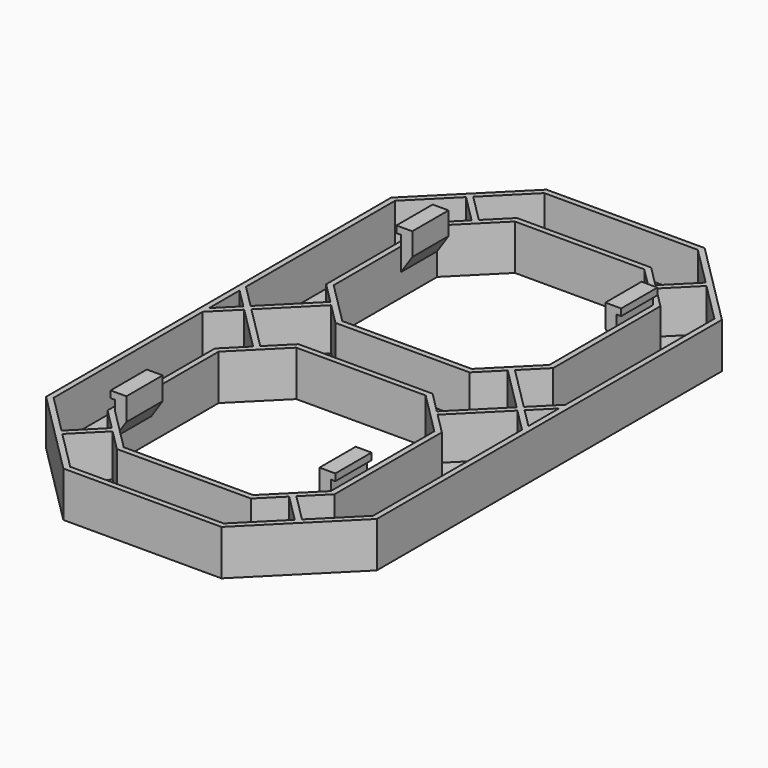
from build123d import *

# Parameters (mm, degrees)
PAD_DEPTH    = 8
THICKNESS_T  = -1
POCKET_DEPTH = 0.5
PAD001_DEPTH = 8
PAD002_DEPTH = 8
SKETCH003_W  = 1
SKETCH003_H  = 7.5
PAD003_DEPTH = 18
SKETCH004_W  = 1
SKETCH004_H  = 7.5
PAD004_DEPTH = 18
SKETCH005_W  = 1
SKETCH005_H  = 7.5
PAD005_DEPTH = 18
SKETCH006_W  = 1
SKETCH006_H  = 7.5
PAD006_DEPTH = 18
SKETCH007_W  = 1
SKETCH007_H  = 7.5
PAD007_DEPTH = 7
SKETCH008_W  = 1
SKETCH008_H  = 7.5
PAD008_DEPTH = 7
SKETCH009_W  = 1
SKETCH009_H  = 7.5
PAD009_DEPTH = 7
SKETCH010_W  = 1
SKETCH010_H  = 7.5
PAD010_DEPTH = 7


with BuildPart() as part:
    # Sketch → Pad (new body)
    with BuildSketch(Plane.XY):
        Polygon((-29.21, 38.1002724549), (-29.21, -38.0997275451), (-13.9697275451, -53.34), (13.9702724549, -53.34), (29.2105449098, -38.0997275451), (29.2105449098, 38.1002724549), (13.9702724549, 53.3405449098), (-13.9697275451, 53.3405449098), align=None)
        Polygon((-19.05, 35.5607622358), (-19.05, 12.7007622358), (-11.4302173259, 5.0809795617), (11.4297826741, 5.0809795617), (19.0495653481, 12.7007622358), (19.0495653481, 35.5607622358), (11.4297826741, 43.1805449098), (-11.4302173259, 43.1805449098), align=None, mode=Mode.SUBTRACT)
        Polygon((-19.05, -35.5602173259), (-19.05, -12.7002173259), (-11.4302173259, -5.0804346519), (11.4297826741, -5.0804346519), (19.0495653481, -12.7002173259), (19.0495653481, -35.5602173259), (11.4297826741, -43.18), (-11.4302173259, -43.18), align=None, mode=Mode.SUBTRACT)
    extrude(amount=PAD_DEPTH)

    # Thickness
    thickness_openings = [part.faces().sort_by_distance(p)[0] for p in [
        (0.000695, 0.000272, 8),
    ]]
    offset(amount=THICKNESS_T, openings=thickness_openings, kind=Kind.INTERSECTION)

    # Thickness Face35 → Pocket (cut)
    with BuildSketch(Plane(origin=(0.0008428897, 0.0002724549, 1), x_dir=(0, 1, 0), z_dir=(0, 0, 1))):
        Polygon((37.6857864376, 28.2108428897), (-37.6857864376, 28.2108428897), (-52.3402724549, 13.5563568724), (-52.3402724549, -13.5552160028), (-37.6857864376, -28.2097020201), (37.6857864376, -28.2097020201), (52.3402724549, -13.5552160028), (52.3402724549, 13.5563568724), align=None)
        Polygon((35.9747033432, 20.0508428897), (44.1802724549, 11.845273778), (44.1802724549, -11.8431533467), (35.9747033432, -20.0487224584), (12.2862762185, -20.0487224584), (4.0807071068, -11.8431533467), (4.0807071068, 11.845273778), (12.2862762185, 20.0508428897), align=None, mode=Mode.SUBTRACT)
        Polygon((-35.9747033432, 20.0508428897), (-12.2862762185, 20.0508428897), (-4.0807071068, 11.845273778), (-4.0807071068, -11.8431533467), (-12.2862762185, -20.0487224584), (-35.9747033432, -20.0487224584), (-44.1802724549, -11.8431533467), (-44.1802724549, 11.845273778), align=None, mode=Mode.SUBTRACT)
    extrude(amount=-POCKET_DEPTH, mode=Mode.SUBTRACT)

    # Sketch001 → Pad001 (join)
    with BuildSketch(Plane.XZ.offset(35.56)):
        Polygon((-19.05, 4), (-19.05, 9.8), (-19.85, 9.8), (-19.85, 11), (-17.05, 11), (-17.05, 7), align=None)
        Polygon((19.05, 4), (19.05, 9.8), (19.85, 9.8), (19.85, 11), (17.05, 11), (17.05, 7), align=None)
    extrude(amount=-PAD001_DEPTH)

    # Sketch002 → Pad002 (join)
    with BuildSketch(Plane.XZ.offset(-35.56)):
        Polygon((-19.05, 4), (-19.05, 9.8), (-19.85, 9.8), (-19.85, 11), (-17.05, 11), (-17.05, 7), align=None)
        Polygon((19.05, 4), (19.05, 9.8), (19.85, 9.8), (19.85, 11), (17.05, 11), (17.05, 7), align=None)
    extrude(amount=PAD002_DEPTH)

    # Sketch003 (on Face77 of Pad002) → Pad003 (join)
    with BuildSketch(Plane(origin=(3.8815083374, -3.8815083374, 0), x_dir=(0.7071067812, 0.7071067812, 0), z_dir=(0.7071067812, -0.7071067812, 0))):
        with Locations((17.0628719395, 4.25)):
            Rectangle(SKETCH003_W, SKETCH003_H)
    extrude(amount=PAD003_DEPTH)

    # Sketch004 (on Face56 of Pad003) → Pad004 (join)
    with BuildSketch(Plane(origin=(3.8817807923, 3.8817807923, 0), x_dir=(-0.7071067812, 0.7071067812, 0), z_dir=(0.7071067812, 0.7071067812, 0))):
        with Locations((-17.06248663, 4.25)):
            Rectangle(SKETCH004_W, SKETCH004_H)
    extrude(amount=PAD004_DEPTH)

    # Sketch005 (on Face84 of Pad004) → Pad005 (join)
    with BuildSketch(Plane(origin=(-3.8817256633, -3.8817256633, 0), x_dir=(0.7071067812, -0.7071067812, 0), z_dir=(-0.7071067812, -0.7071067812, 0))):
        with Locations((-17.0631792847, 4.25)):
            Rectangle(SKETCH005_W, SKETCH005_H)
    extrude(amount=PAD005_DEPTH)

    # Sketch006 (on Face69 of Pad005) → Pad006 (join)
    with BuildSketch(Plane(origin=(-3.8819981182, 3.8819981182, 0), x_dir=(-0.7071067812, -0.7071067812, 0), z_dir=(-0.7071067812, 0.7071067812, 0))):
        with Locations((17.0627939753, 4.25)):
            Rectangle(SKETCH006_W, SKETCH006_H)
    extrude(amount=PAD006_DEPTH)

    # Sketch007 (on Face79 of Pad006) → Pad007 (join)
    with BuildSketch(Plane(origin=(-28.0124878991, 28.0124878991, 0), x_dir=(-0.7071067812, -0.7071067812, 0), z_dir=(-0.7071067812, 0.7071067812, 0))):
        with Locations((-17.0628719395, 4.25)):
            Rectangle(SKETCH007_W, SKETCH007_H)
    extrude(amount=PAD007_DEPTH)

    # Sketch008 (on Face73 of Pad007) → Pad008 (join)
    with BuildSketch(Plane(origin=(-28.0122154442, -28.0122154442, 0), x_dir=(0.7071067812, -0.7071067812, 0), z_dir=(-0.7071067812, -0.7071067812, 0))):
        with Locations((17.06248663, 4.25)):
            Rectangle(SKETCH008_W, SKETCH008_H)
    extrude(amount=PAD008_DEPTH)

    # Sketch009 (on Face64 of Pad008) → Pad009 (join)
    with BuildSketch(Plane(origin=(28.0119981182, -28.0119981182, 0), x_dir=(0.7071067812, 0.7071067812, 0), z_dir=(0.7071067812, -0.7071067812, 0))):
        with Locations((-17.0627939753, 4.25)):
            Rectangle(SKETCH009_W, SKETCH009_H)
    extrude(amount=PAD009_DEPTH)

    # Sketch010 (on Face62 of Pad009) → Pad010 (join)
    with BuildSketch(Plane(origin=(28.0122705731, 28.0122705731, 0), x_dir=(-0.7071067812, 0.7071067812, 0), z_dir=(0.7071067812, 0.7071067812, 0))):
        with Locations((17.0631792847, 4.25)):
            Rectangle(SKETCH010_W, SKETCH010_H)
    extrude(amount=PAD010_DEPTH)


solid = part.part
